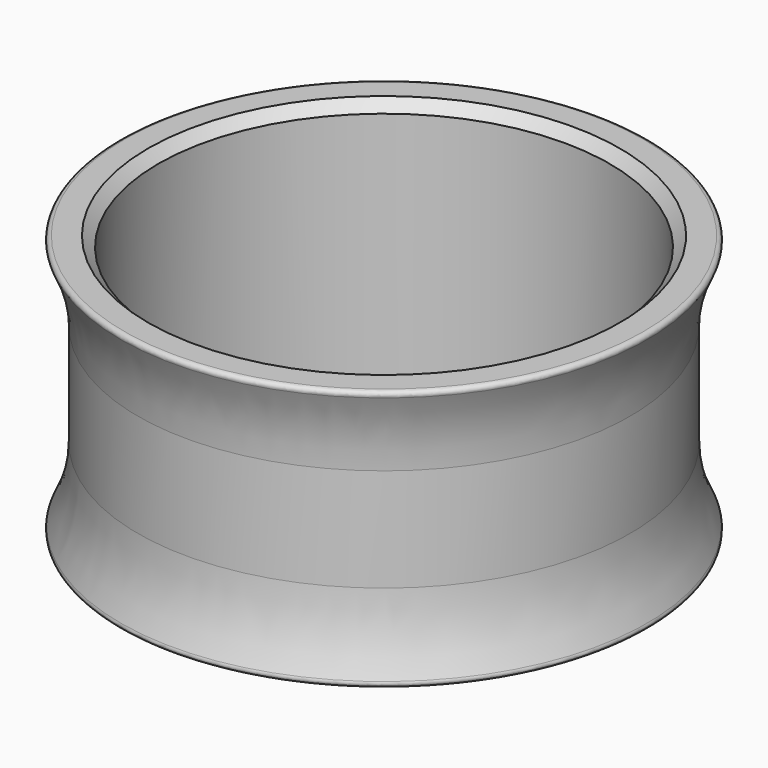
from build123d import *

# Parameters (mm, degrees)
FILLET_R     = 0.2
CHAMFER_SIZE = 0.5


with BuildPart() as part:
    # Sketch001 → Revolution (revolve)
    with BuildSketch(Plane.XZ):
        with BuildLine():
            Line((-11.05, 12.8), (-11.05, 0))
            Line((-11.05, 0), (-13.05, 0))
            ThreePointArc((-13.05, 0), (-12.304033, 1.872983), (-12.05, 3.872983))
            Line((-12.05, 3.872983), (-12.05, 8.927017))
            ThreePointArc((-12.05, 8.927017), (-12.304033, 10.927017), (-13.05, 12.8))
            Line((-13.05, 12.8), (-11.05, 12.8))
        make_face()
    revolve(axis=Axis((0, 0, 0), (0, 0, 1)))

    # Fillet
    fillet_edges = [part.edges().sort_by_distance(p)[0] for p in [
        (13.05, 0, 12.8),
        (13.05, 0, 0),
    ]]
    fillet(fillet_edges, radius=FILLET_R)

    # Chamfer
    chamfer_edges = [part.edges().sort_by_distance(p)[0] for p in [
        (11.05, 0, 0),
        (11.05, 0, 12.8),
    ]]
    chamfer(chamfer_edges, length=CHAMFER_SIZE)


solid = part.part
